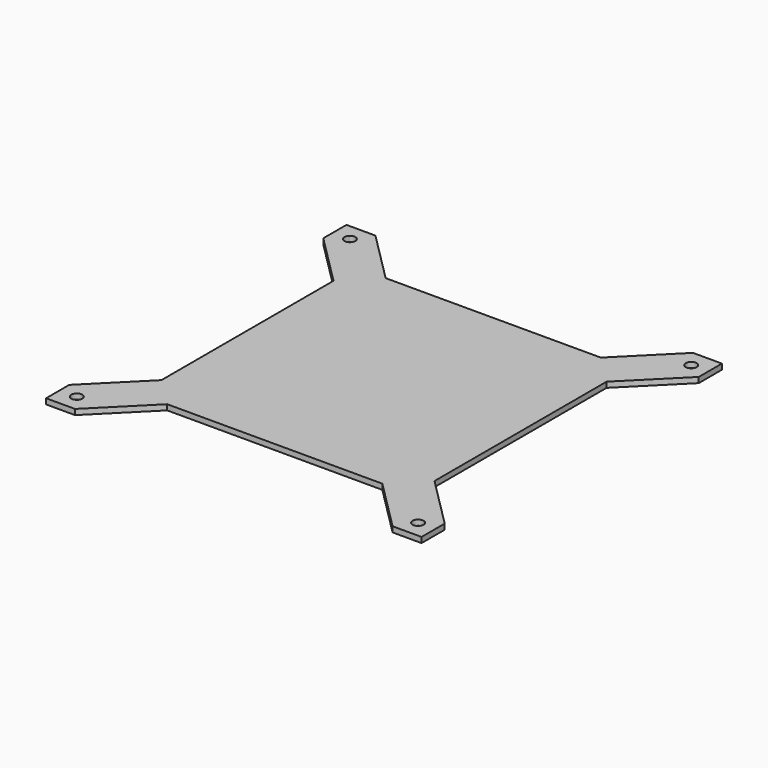
from build123d import *

# Parameters (mm, degrees)
F1_DEPTH = 4


with BuildPart() as f1:
    # F0 (on Top) → F1 (new body)
    with BuildSketch(Plane.XY):
        Polygon((116.286797, -137.5), (137.5, -137.5), (137.5, -116.286797), (133.713203, -112.5), (112.5, -112.5), (112.5, -133.713203), align=None)
        with BuildLine():
            ThreePointArc((129, -125), (128.695518, -126.530734), (127.828427, -127.828427))
            ThreePointArc((127.828427, -127.828427), (121.304482, -123.469266), (129, -125))
        make_face(mode=Mode.SUBTRACT)
        Polygon((78.786797, -100), (112.5, -133.713203), (112.5, -112.5), (133.713203, -112.5), (100, -78.786797), (100, -100), align=None)
        Polygon((-78.786797, -100), (78.786797, -100), (100, -100), (100, -78.786797), (100, 78.786797), (100, 100), (78.786797, 100), (-78.786797, 100), (-100, 100), (-100, 78.786797), (-100, -78.786797), (-100, -100), align=None)
        Polygon((-112.5, -133.713203), (-78.786797, -100), (-100, -100), (-100, -78.786797), (-133.713203, -112.5), (-112.5, -112.5), align=None)
        Polygon((100, 100), (100, 78.786797), (133.713203, 112.5), (112.5, 112.5), (112.5, 133.713203), (78.786797, 100), align=None)
        Polygon((-116.286797, -137.5), (-112.5, -133.713203), (-112.5, -112.5), (-133.713203, -112.5), (-137.5, -116.286797), (-137.5, -137.5), align=None)
        with BuildLine():
            ThreePointArc((-121, -125), (-123.469266, -128.695518), (-127.828427, -127.828427))
            ThreePointArc((-127.828427, -127.828427), (-126.530734, -121.304482), (-121, -125))
        make_face(mode=Mode.SUBTRACT)
        Polygon((112.5, 112.5), (133.713203, 112.5), (137.5, 116.286797), (137.5, 137.5), (116.286797, 137.5), (112.5, 133.713203), align=None)
        with BuildLine():
            ThreePointArc((129, 125), (121.304482, 123.469266), (127.828427, 127.828427))
            ThreePointArc((127.828427, 127.828427), (128.695518, 126.530734), (129, 125))
        make_face(mode=Mode.SUBTRACT)
        Polygon((-133.713203, 112.5), (-100, 78.786797), (-100, 100), (-78.786797, 100), (-112.5, 133.713203), (-112.5, 112.5), align=None)
        Polygon((-137.5, 116.286797), (-133.713203, 112.5), (-112.5, 112.5), (-112.5, 133.713203), (-116.286797, 137.5), (-137.5, 137.5), align=None)
        with BuildLine():
            ThreePointArc((-121, 125), (-126.530734, 121.304482), (-127.828427, 127.828427))
            ThreePointArc((-127.828427, 127.828427), (-123.469266, 128.695518), (-121, 125))
        make_face(mode=Mode.SUBTRACT)
    extrude(amount=F1_DEPTH)


solid = f1.part
